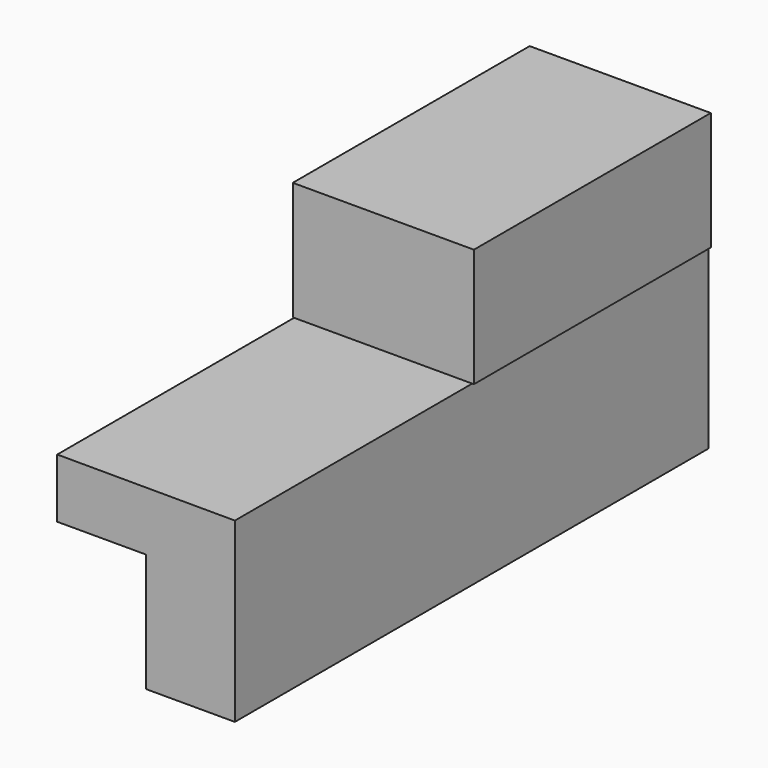
from build123d import *

# Parameters (mm, degrees)
F0_W     = 38.84396
F0_H     = 25.4
F1_DEPTH = 63.5
F3_DEPTH = 127


with BuildPart() as f1:
    # F0 (on Front) → F1 (new body)
    with BuildSketch(Plane.XZ):
        with Locations((-36.529902, 22.546515)):
            Rectangle(F0_W, F0_H)
    extrude(amount=F1_DEPTH)

    # F2 (on Front) → F3 (join)
    with BuildSketch(Plane.XZ):
        Polygon((-17.571804, 9.764426), (-55.671804, 9.847705), (-55.671804, -2.852295), (-36.621804, -2.852295), (-36.621804, -28.252295), (-17.571804, -28.252295), align=None)
    extrude(amount=F3_DEPTH)


solid = f1.part
